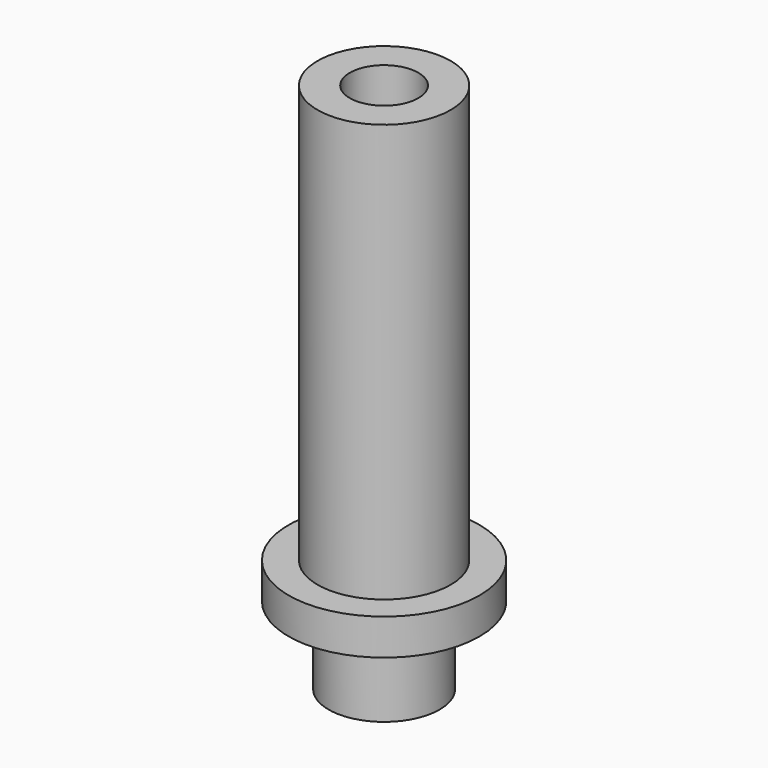
from build123d import *

# Parameters (mm, degrees)
F0_R     = 3.2766
F1_DEPTH = 8.89
F2_R     = 4.699
F3_DEPTH = 1.778
F4_R     = 2.7305
F5_DEPTH = 3.81
F6_R     = 3.2766
F6_R_2   = 1.6891
F7_DEPTH = 13.462


with BuildPart() as f1:
    # F0 (on Top) → F1 (new body)
    with BuildSketch(Plane.XY):
        Circle(F0_R)
    extrude(amount=F1_DEPTH)

    # F2 (on Top) → F3 (join)
    with BuildSketch(Plane.XY):
        Circle(F2_R)
    extrude(amount=F3_DEPTH)

    # F4 (on face) → F5 (join)
    with BuildSketch(Plane(origin=(0, 0, 0), x_dir=(1, 0, 0), z_dir=(0, 0, -1))):
        Circle(F4_R)
    extrude(amount=F5_DEPTH)

    # F6 (on face) → F7 (join)
    with BuildSketch(Plane.XY.offset(8.89)):
        Circle(F6_R)
        Circle(F6_R_2, mode=Mode.SUBTRACT)
    extrude(amount=F7_DEPTH)


solid = f1.part
